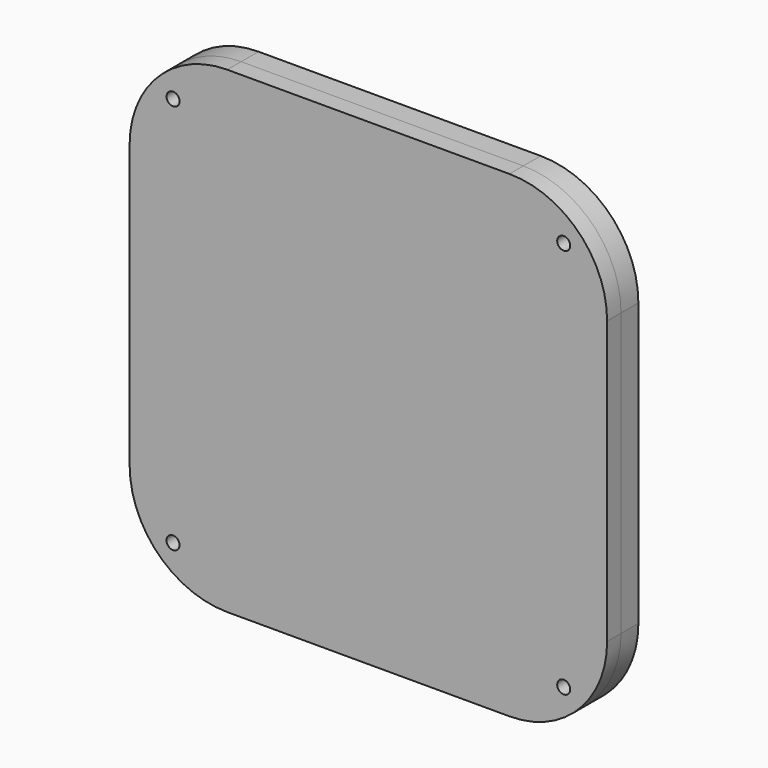
from build123d import *

# Parameters (mm, degrees)
F0_R     = 3
F0_R_2   = 100.5
F1_DEPTH = 10
F2_DEPTH = 8


with BuildPart() as f1:
    # F0 (on Front) → F1 (new body)
    with BuildSketch(Plane.XZ):
        with BuildLine():
            Line((65, 110), (-65, 110))
            ThreePointArc((-65, 110), (-96.819805, 96.819805), (-110, 65))
            Line((-110, 65), (-110, -65))
            ThreePointArc((-110, -65), (-96.819805, -96.819805), (-65, -110))
            Line((-65, -110), (65, -110))
            ThreePointArc((65, -110), (96.819805, -96.819805), (110, -65))
            Line((110, -65), (110, 65))
            ThreePointArc((110, 65), (96.819805, 96.819805), (65, 110))
        make_face()
        with Locations((-90, -90)):
            Circle(F0_R, mode=Mode.SUBTRACT)
        with Locations((90, -90)):
            Circle(F0_R, mode=Mode.SUBTRACT)
        with Locations((-90, 90)):
            Circle(F0_R, mode=Mode.SUBTRACT)
        Circle(F0_R_2, mode=Mode.SUBTRACT)
        with Locations((90, 90)):
            Circle(F0_R, mode=Mode.SUBTRACT)
    extrude(amount=-F1_DEPTH)


with BuildPart() as f2:
    # F0 (on Front) → F2 (new body)
    with BuildSketch(Plane.XZ):
        with BuildLine():
            Line((65, 110), (-65, 110))
            ThreePointArc((-65, 110), (-96.819805, 96.819805), (-110, 65))
            Line((-110, 65), (-110, -65))
            ThreePointArc((-110, -65), (-96.819805, -96.819805), (-65, -110))
            Line((-65, -110), (65, -110))
            ThreePointArc((65, -110), (96.819805, -96.819805), (110, -65))
            Line((110, -65), (110, 65))
            ThreePointArc((110, 65), (96.819805, 96.819805), (65, 110))
        make_face()
        with Locations((-90, -90)):
            Circle(F0_R, mode=Mode.SUBTRACT)
        with Locations((90, -90)):
            Circle(F0_R, mode=Mode.SUBTRACT)
        with Locations((-90, 90)):
            Circle(F0_R, mode=Mode.SUBTRACT)
        Circle(F0_R_2, mode=Mode.SUBTRACT)
        with Locations((90, 90)):
            Circle(F0_R, mode=Mode.SUBTRACT)
        Circle(F0_R_2)
    extrude(amount=F2_DEPTH)


solid = Compound([f1.part, f2.part])
